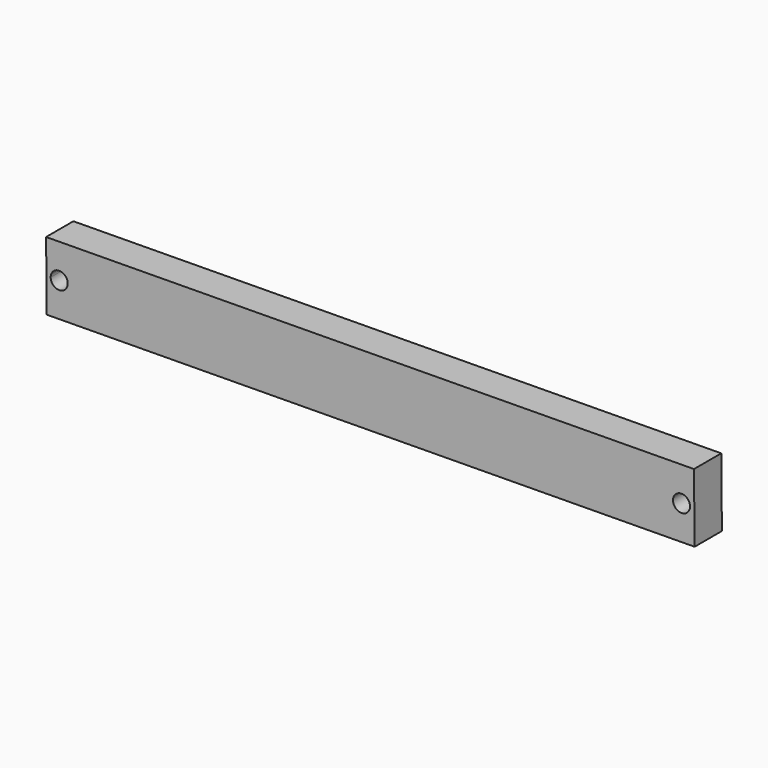
from build123d import *

# Parameters (mm, degrees)
F1_DEPTH = 12.7
F3_DEPTH = 12.701


with BuildPart() as f1:
    # F0 (on Front) → F1 (new body)
    with BuildSketch(Plane.XZ):
        Polygon((157.966793, 14.448158), (-83.321497, 12.070934), (-83.071263, -13.327833), (158.217027, -10.950609), align=None)
    extrude(amount=F1_DEPTH)

    # F2 (on face) → F3 (cut, through all)
    with BuildSketch(Plane.XZ.offset(12.7)):
        with BuildLine():
            ThreePointArc((-81.608957, -0.61281), (-78.418471, -3.756492), (-75.259111, -0.58153))
            ThreePointArc((-75.259111, -0.58153), (-78.449751, 2.593431), (-81.608957, -0.61281))
        make_face()
        with BuildLine():
            ThreePointArc((156.504487, 1.733135), (150.15468, 1.686216), (156.504641, 1.701856))
            ThreePointArc((156.504641, 1.701856), (156.504603, 1.717496), (156.504487, 1.733135))
        make_face()
    extrude(amount=-F3_DEPTH, mode=Mode.SUBTRACT)


solid = f1.part
